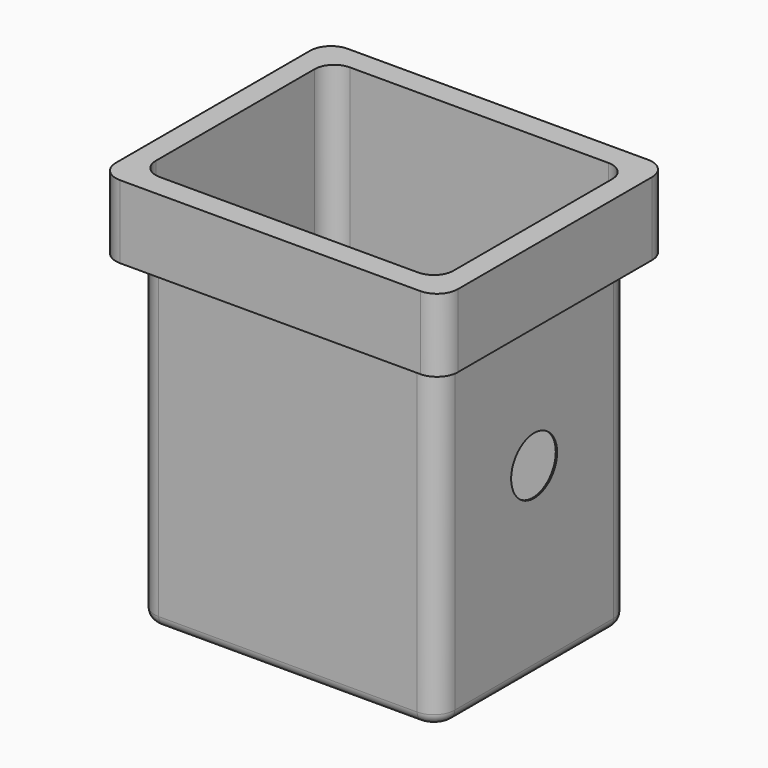
from build123d import *

# Parameters (mm, degrees)
F0_W     = 365.125
F0_H     = 292.1
F1_DEPTH = 482.6
F2_R     = 25.4
F3_R     = 12.7
F4_T     = -1.5875
F5_R     = 34.925
F6_DEPTH = 365.126
F7_W     = 415.925
F7_H     = 346.075
F8_DEPTH = 88.9
F9_R     = 25.4


with BuildPart() as f1:
    # F0 (on Top) → F1 (new body)
    with BuildSketch(Plane.XY):
        Rectangle(F0_W, F0_H)
    extrude(amount=F1_DEPTH)

    # F2
    f2_edges = [f1.edges().sort_by_distance(p)[0] for p in [
        (-182.5625, -146.05, 241.3),
        (182.5625, -146.05, 241.3),
        (182.5625, 146.05, 241.3),
        (-182.5625, 146.05, 241.3),
    ]]
    fillet(f2_edges, radius=F2_R)

    # F3
    f3_edges = [f1.edges().sort_by_distance(p)[0] for p in [
        (0, -146.05, 0),
    ]]
    fillet(f3_edges, radius=F3_R)

    # F4
    f4_openings = [f1.faces().sort_by_distance(p)[0] for p in [
        (0, 0, 482.6),
    ]]
    offset(amount=F4_T, openings=f4_openings)

    # F5 (on face) → F6 (cut, through all)
    with BuildSketch(Plane.YZ.offset(182.5625)):
        with Locations((0, 225.425)):
            Circle(F5_R)
    extrude(amount=-F6_DEPTH, mode=Mode.SUBTRACT)

    # F7 (on face) → F8 (join)
    with BuildSketch(Plane.XY.offset(482.6)):
        Rectangle(F7_W, F7_H)
        with BuildLine():
            Line((-182.5625, -120.65), (-182.5625, 120.65))
            ThreePointArc((-182.5625, 120.65), (-175.123012, 138.610512), (-157.1625, 146.05))
            Line((-157.1625, 146.05), (157.1625, 146.05))
            ThreePointArc((157.1625, 146.05), (175.123012, 138.610512), (182.5625, 120.65))
            Line((182.5625, 120.65), (182.5625, -120.65))
            ThreePointArc((182.5625, -120.65), (175.123012, -138.610512), (157.1625, -146.05))
            Line((157.1625, -146.05), (-157.1625, -146.05))
            ThreePointArc((-157.1625, -146.05), (-175.123012, -138.610512), (-182.5625, -120.65))
        make_face(mode=Mode.SUBTRACT)
    extrude(amount=-F8_DEPTH)

    # F9
    f9_edges = [f1.edges().sort_by_distance(p)[0] for p in [
        (-207.9625, -173.0375, 438.15),
        (207.9625, -173.0375, 438.15),
        (207.9625, 173.0375, 438.15),
        (-207.9625, 173.0375, 438.15),
    ]]
    fillet(f9_edges, radius=F9_R)


solid = f1.part
